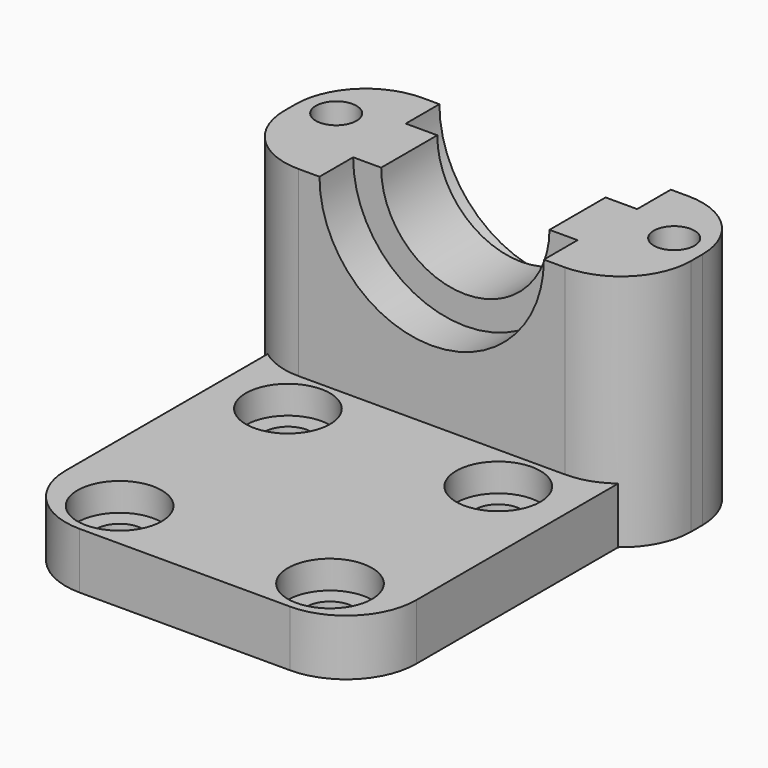
from build123d import *

# Parameters (mm, degrees)
F0_W      = 25
F0_H      = 33
F1_DEPTH  = 4
F2_R      = 1.675
F3_DEPTH  = 25
F4_W      = 25
F4_H      = 11
F5_DEPTH  = 13
F7_DEPTH  = 9
F8_R      = 8
F9_DEPTH  = 3
F2_R_2    = 3
F10_DEPTH = 2
F11_R     = 5
F12_W     = 11
F12_H     = 17
F13_DEPTH = 2
F14_W     = 11
F14_H     = 17
F15_DEPTH = 2
F16_R     = 1.45
F17_DEPTH = 25
F18_R     = 5
F19_R     = 8.25
F20_DEPTH = 3


with BuildPart() as f1:
    # F0 (on Top) → F1 (new body)
    with BuildSketch(Plane.XY):
        with Locations((12.5, 16.5)):
            Rectangle(F0_W, F0_H)
    extrude(amount=F1_DEPTH)

    # F2 (on face) → F3 (cut)
    with BuildSketch(Plane.XY.offset(4)):
        with BuildLine():
            ThreePointArc((3.325, 18.5605346784), (5, 16.8855346784), (6.675, 18.5605346784))
            ThreePointArc((6.675, 18.5605346784), (5, 20.2355346784), (3.325, 18.5605346784))
        make_face()
        with Locations((20, 18.5605346784)):
            Circle(F2_R)
        with Locations((20, 3.5605346784)):
            Circle(F2_R)
        with Locations((5, 3.5605346784)):
            Circle(F2_R)
    extrude(amount=-F3_DEPTH, mode=Mode.SUBTRACT)

    # F4 (on face) → F5 (join)
    with BuildSketch(Plane.XY.offset(4)):
        with Locations((12.5, 27.5)):
            Rectangle(F4_W, F4_H)
    extrude(amount=F5_DEPTH)

    # F6 (on face) → F7 (cut)
    with BuildSketch(Plane(origin=(0, 33, 0), x_dir=(-1, 0, 0), z_dir=(0, 1, 0))):
        with BuildLine():
            ThreePointArc((-18.5, 17), (-12.5, 11), (-6.5, 17))
            Line((-6.5, 17), (-18.5, 17))
        make_face()
    extrude(amount=-F7_DEPTH, mode=Mode.SUBTRACT)

    # F8 (on face) → F9 (cut)
    with BuildSketch(Plane.XZ.offset(-22)):
        with Locations((12.5, 17)):
            Circle(F8_R)
    extrude(amount=-F9_DEPTH, mode=Mode.SUBTRACT)

    # F2 (on face) → F10 (cut)
    with BuildSketch(Plane.XY.offset(4)):
        with BuildLine():
            ThreePointArc((8, 18.5605346784), (5, 21.5605346784), (2, 18.5605346784))
            ThreePointArc((2, 18.5605346784), (5, 15.5605346784), (8, 18.5605346784))
        make_face()
        with BuildLine():
            ThreePointArc((3.325, 18.5605346784), (5, 20.2355346784), (6.675, 18.5605346784))
            ThreePointArc((6.675, 18.5605346784), (5, 16.8855346784), (3.325, 18.5605346784))
        make_face(mode=Mode.SUBTRACT)
        with Locations((20, 18.5605346784)):
            Circle(F2_R_2)
        with Locations((20, 18.5605346784)):
            Circle(F2_R, mode=Mode.SUBTRACT)
        with Locations((20, 3.5605346784)):
            Circle(F2_R_2)
        with Locations((20, 3.5605346784)):
            Circle(F2_R, mode=Mode.SUBTRACT)
        with Locations((5, 3.5605346784)):
            Circle(F2_R_2)
        with Locations((5, 3.5605346784)):
            Circle(F2_R, mode=Mode.SUBTRACT)
    extrude(amount=-F10_DEPTH, mode=Mode.SUBTRACT)

    # F11
    f11_edges = [f1.edges().sort_by_distance(p)[0] for p in [
        (0, 0, 2),
        (25, 0, 2),
    ]]
    fillet(f11_edges, radius=F11_R)

    # F12 (on face) → F13 (join)
    with BuildSketch(Plane(origin=(0, 0, 0), x_dir=(0, -1, 0), z_dir=(-1, 0, 0))):
        with Locations((-27.5, 8.5)):
            Rectangle(F12_W, F12_H)
    extrude(amount=F13_DEPTH)

    # F14 (on face) → F15 (join)
    with BuildSketch(Plane.YZ.offset(25)):
        with Locations((27.5, 8.5)):
            Rectangle(F14_W, F14_H)
    extrude(amount=F15_DEPTH)

    # F16 (on face) → F17 (cut)
    with BuildSketch(Plane.XY.offset(17)):
        with Locations((0.45, 28.55)):
            Circle(F16_R)
        with Locations((24.55, 28.55)):
            Circle(F16_R)
    extrude(amount=-F17_DEPTH, mode=Mode.SUBTRACT)

    # F18
    f18_edges = [f1.edges().sort_by_distance(p)[0] for p in [
        (-2, 22, 8.5),
        (-2, 33, 8.5),
        (27, 33, 8.5),
        (27, 22, 8.5),
    ]]
    fillet(f18_edges, radius=F18_R)

    # F19 (on face) → F20 (cut)
    with BuildSketch(Plane(origin=(0, 33, 0), x_dir=(-1, 0, 0), z_dir=(0, 1, 0))):
        with Locations((-12.5, 17)):
            Circle(F19_R)
    extrude(amount=-F20_DEPTH, mode=Mode.SUBTRACT)


solid = f1.part
